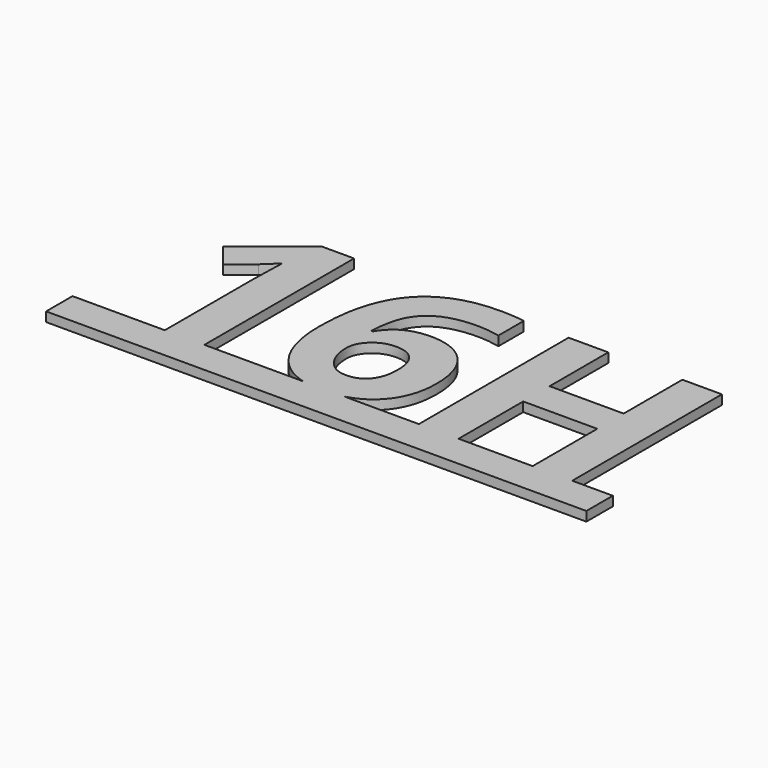
from build123d import *

# Parameters (mm, degrees)
F1_DEPTH = 50.8


with BuildPart() as f1:
    # F0 (on Top) → F1 (new body)
    with BuildSketch(Plane.XY):
        with BuildLine():
            add(Edge.make_bspline(
                [(966.5089312048, 0), (919.8710814193, 12.9086432463), (879.8323553933, 37.8133680556)],
                knots=[0.5183210553, 0.5183210553, 0.5183210553, 1, 1, 1], degree=2))
            Line((966.5089312048, 0), (1187.978883028, 0))
            add(Edge.make_bspline(
                [(1326.64745956, 80.2569444444), (1270.632001474, 22.2724581348), (1187.978883028, 0)],
                knots=[0, 0, 0, 0.6158893602, 0.6158893602, 0.6158893602], degree=2))
            add(Edge.make_bspline(
                [(1417.5979803933, 335.5798611111), (1417.5979803933, 174.4045138889), (1326.64745956, 80.2569444444)],
                knots=[0, 0, 0, 1, 1, 1], degree=2))
            add(Edge.make_bspline(
                [(1341.0892998377, 569.8463541667), (1417.5979803933, 485.0694444444), (1417.5979803933, 335.5798611111)],
                knots=[0, 0, 0, 1, 1, 1], degree=2))
            add(Edge.make_bspline(
                [(1129.6431192822, 654.6232638889), (1264.5806192822, 654.6232638889), (1341.0892998377, 569.8463541667)],
                knots=[0, 0, 0, 1, 1, 1], degree=2))
            add(Edge.make_bspline(
                [(911.1413831711, 537.5451388889), (979.4920776155, 654.6232638889), (1129.6431192822, 654.6232638889)],
                knots=[0, 0, 0, 1, 1, 1], degree=2))
            Line((911.1413831711, 537.5451388889), (902.3219387266, 537.5451388889))
            add(Edge.make_bspline(
                [(942.8913831711, 721.4305555556), (908.4955498377, 656.6076388889), (902.3219387266, 537.5451388889)],
                knots=[0, 0, 0, 1, 1, 1], degree=2))
            add(Edge.make_bspline(
                [(1046.5198553933, 819.3263888889), (977.2872165044, 786.2534722222), (942.8913831711, 721.4305555556)],
                knots=[0, 0, 0, 1, 1, 1], degree=2))
            add(Edge.make_bspline(
                [(1225.3340915044, 852.3993055556), (1115.7524942822, 852.3993055556), (1046.5198553933, 819.3263888889)],
                knots=[0, 0, 0, 1, 1, 1], degree=2))
            add(Edge.make_bspline(
                [(1346.6014526155, 838.5086805556), (1285.3063137266, 852.3993055556), (1225.3340915044, 852.3993055556)],
                knots=[0, 0, 0, 1, 1, 1], degree=2))
            Line((1346.6014526155, 838.5086805556), (1346.6014526155, 1008.7239583333))
            add(Edge.make_bspline(
                [(1211.6639526155, 1019.0868055556), (1297.6535359489, 1019.0868055556), (1346.6014526155, 1008.7239583333)],
                knots=[0, 0, 0, 1, 1, 1], degree=2))
            add(Edge.make_bspline(
                [(832.9790567822, 873.0147569444), (959.4278415044, 1019.0868055556), (1211.6639526155, 1019.0868055556)],
                knots=[0, 0, 0, 1, 1, 1], degree=2))
            add(Edge.make_bspline(
                [(706.53027206, 427.9635416667), (706.53027206, 726.9427083333), (832.9790567822, 873.0147569444)],
                knots=[0, 0, 0, 1, 1, 1], degree=2))
            add(Edge.make_bspline(
                [(751.6196817822, 188.7361111111), (706.53027206, 287.9548611111), (706.53027206, 427.9635416667)],
                knots=[0, 0, 0, 1, 1, 1], degree=2))
            add(Edge.make_bspline(
                [(879.8323553933, 37.8133680556), (796.7090915044, 89.5173611111), (751.6196817822, 188.7361111111)],
                knots=[0, 0, 0, 1, 1, 1], degree=2))
        make_face()
        with BuildLine():
            add(Edge.make_bspline(
                [(1070.3323553933, 156.3246527778), (1138.4625637266, 156.3246527778), (1175.0632581711, 202.1857638889)],
                knots=[0, 0, 0, 1, 1, 1], degree=2))
            add(Edge.make_bspline(
                [(961.0814873377, 212.8793402778), (1004.18652206, 156.3246527778), (1070.3323553933, 156.3246527778)],
                knots=[0, 0, 0, 1, 1, 1], degree=2))
            add(Edge.make_bspline(
                [(917.9764526155, 351.4548611111), (917.9764526155, 269.4340277778), (961.0814873377, 212.8793402778)],
                knots=[0, 0, 0, 1, 1, 1], degree=2))
            add(Edge.make_bspline(
                [(963.8375637266, 449.2404513889), (917.9764526155, 407.2378472222), (917.9764526155, 351.4548611111)],
                knots=[0, 0, 0, 1, 1, 1], degree=2))
            add(Edge.make_bspline(
                [(1074.5215915044, 491.2430555556), (1009.6986748377, 491.2430555556), (963.8375637266, 449.2404513889)],
                knots=[0, 0, 0, 1, 1, 1], degree=2))
            add(Edge.make_bspline(
                [(1177.4886053933, 448.9097222222), (1143.3132581711, 491.2430555556), (1074.5215915044, 491.2430555556)],
                knots=[0, 0, 0, 1, 1, 1], degree=2))
            add(Edge.make_bspline(
                [(1211.6639526155, 332.7135416667), (1211.6639526155, 406.5763888889), (1177.4886053933, 448.9097222222)],
                knots=[0, 0, 0, 1, 1, 1], degree=2))
            add(Edge.make_bspline(
                [(1175.0632581711, 202.1857638889), (1211.6639526155, 248.046875), (1211.6639526155, 332.7135416667)],
                knots=[0, 0, 0, 1, 1, 1], degree=2))
        make_face(mode=Mode.SUBTRACT)
        with BuildLine():
            Line((1187.978883028, 0), (966.5089312048, 0))
            add(Edge.make_bspline(
                [(1074.5215915044, -13.890625), (1016.6945990412, -13.890625), (966.5089312048, 0)],
                knots=[0, 0, 0, 0.5183210553, 0.5183210553, 0.5183210553], degree=2))
            add(Edge.make_bspline(
                [(1187.978883028, 0), (1136.4307572457, -13.890625), (1074.5215915044, -13.890625)],
                knots=[0.6158893602, 0.6158893602, 0.6158893602, 1, 1, 1], degree=2))
        make_face()
        with BuildLine():
            Line((-275.5148668289, 0), (-275.5148668289, -177.8))
            Line((-275.5148668289, -177.8), (2633.1379109489, -177.8))
            Line((2633.1379109489, -177.8), (2633.1379109489, 0))
            Line((2633.1379109489, 0), (2414.6361748377, 0))
            Line((2414.6361748377, 0), (2201.6465915044, 0))
            Line((2201.6465915044, 0), (1802.7872165044, 0))
            Line((1802.7872165044, 0), (1589.1361748377, 0))
            Line((1589.1361748377, 0), (1187.978883028, 0))
            add(Edge.make_bspline(
                [(1187.978883028, 0), (1136.4307572457, -13.890625), (1074.5215915044, -13.890625)],
                knots=[0.6158893602, 0.6158893602, 0.6158893602, 1, 1, 1], degree=2))
            add(Edge.make_bspline(
                [(1074.5215915044, -13.890625), (1016.6945990412, -13.890625), (966.5089312048, 0)],
                knots=[0, 0, 0, 0.5183210553, 0.5183210553, 0.5183210553], degree=2))
            Line((966.5089312048, 0), (434.4504109489, 0))
            Line((434.4504109489, 0), (221.4608276155, 0))
            Line((221.4608276155, 0), (-275.5148668289, 0))
        make_face()
        with BuildLine():
            Line((221.4608276155, 582.9652777778), (221.4608276155, 0))
            Line((221.4608276155, 0), (434.4504109489, 0))
            Line((434.4504109489, 0), (434.4504109489, 1007.4010416667))
            Line((434.4504109489, 1007.4010416667), (259.3844387266, 1007.4010416667))
            Line((259.3844387266, 1007.4010416667), (-65.1711168289, 748.9913194444))
            Line((-65.1711168289, 748.9913194444), (37.5754109489, 620.8888888889))
            Line((37.5754109489, 620.8888888889), (153.3306192822, 713.9340277778))
            add(Edge.make_bspline(
                [(226.9729803933, 783.3871527778), (174.0563137266, 730.4704861111), (153.3306192822, 713.9340277778)],
                knots=[0, 0, 0, 1, 1, 1], degree=2))
            Line((226.9729803933, 783.3871527778), (223.6656887266, 678.65625))
            Line((223.6656887266, 678.65625), (221.4608276155, 582.9652777778))
        make_face()
        Polygon((2201.6465915044, 0), (2414.6361748377, 0), (2414.6361748377, 1007.4010416667), (2201.6465915044, 1007.4010416667), (2201.6465915044, 612.5104166667), (1802.7872165044, 612.5104166667), (1802.7872165044, 1007.4010416667), (1589.1361748377, 1007.4010416667), (1589.1361748377, 0), (1802.7872165044, 0), (1802.7872165044, 434.7986111111), (2201.6465915044, 434.7986111111), align=None)
    extrude(amount=F1_DEPTH)


solid = f1.part
